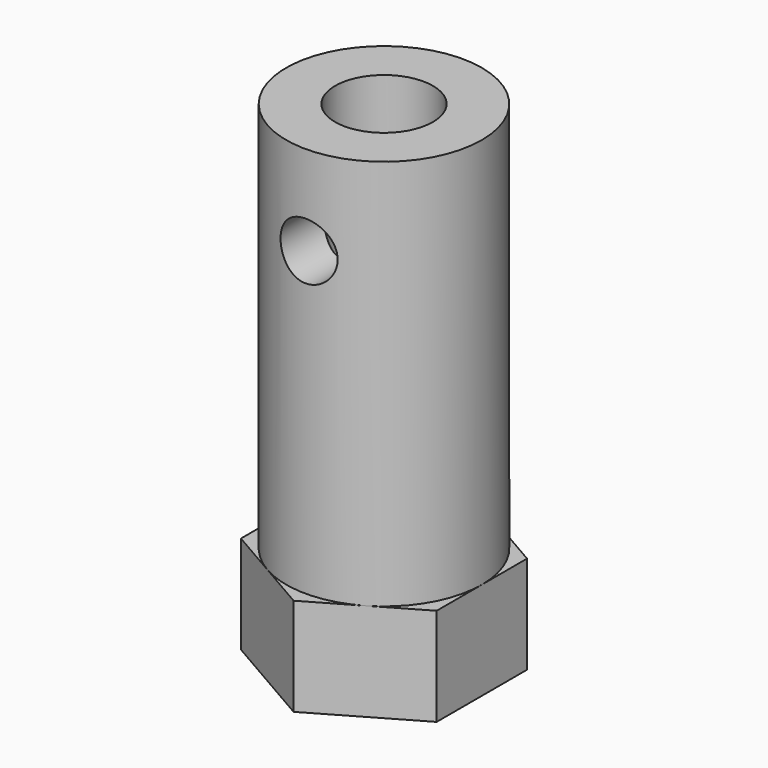
from build123d import *

# Parameters (mm, degrees)
PAD_DEPTH       = 6
SKETCH001_R     = 6
PAD001_DEPTH    = 24
SKETCH002_R     = 3
POCKET_DEPTH    = 24.5
SKETCH003_R     = 1.75
POCKET001_DEPTH = 6
SKETCH004_R     = 1.75
POCKET002_DEPTH = 7


with BuildPart() as part:
    # Sketch → Pad (new body)
    with BuildSketch(Plane.XY):
        Polygon((6, 3.464102), (0, 6.928203), (-6, 3.464102), (-6, -3.464102), (0, -6.928203), (6, -3.464102), align=None)
    extrude(amount=PAD_DEPTH)

    # Sketch001 (on Face8 of Pad) → Pad001 (join)
    with BuildSketch(Plane.XY.offset(6)):
        Circle(SKETCH001_R)
    extrude(amount=PAD001_DEPTH)

    # Sketch002 (on Face15 of Pad001) → Pocket (cut)
    with BuildSketch(Plane.XY.offset(30)):
        Circle(SKETCH002_R)
    extrude(amount=-POCKET_DEPTH, mode=Mode.SUBTRACT)

    # Sketch003 (on Face4 of Pocket) → Pocket001 (cut)
    with BuildSketch(Plane(origin=(0, 0, 0), x_dir=(1, 0, 0), z_dir=(0, 0, -1))):
        Circle(SKETCH003_R)
    extrude(amount=-POCKET001_DEPTH, mode=Mode.SUBTRACT)

    # Sketch004 → Pocket002 (cut, symmetric)
    with BuildSketch(Plane.XZ):
        with Locations((0, 24.5)):
            Circle(SKETCH004_R)
    extrude(amount=POCKET002_DEPTH, both=True, mode=Mode.SUBTRACT)


solid = part.part
